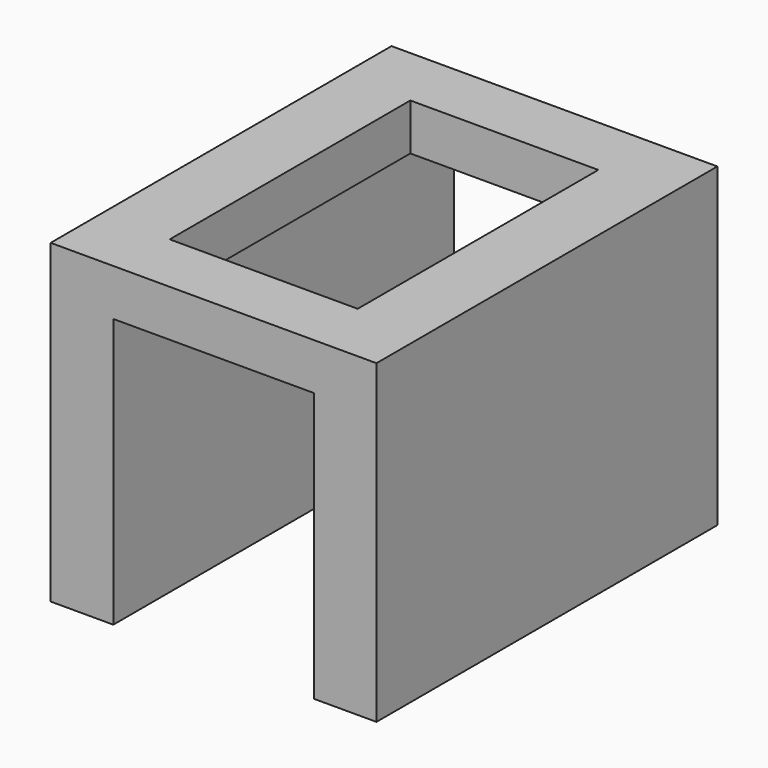
from build123d import *

# Parameters (mm, degrees)
SKETCH021_W     = 65
SKETCH021_H     = 85
PAD015_DEPTH    = 63
SKETCH022_W     = 40
SKETCH022_H     = 85
POCKET009_DEPTH = 53.7
SKETCH023_W     = 37.5
SKETCH023_H     = 60
POCKET010_DEPTH = 63


with BuildPart() as part:
    # Sketch021 → Pad015 (new body)
    with BuildSketch(Plane.XY):
        with Locations((0, -30)):
            Rectangle(SKETCH021_W, SKETCH021_H)
    extrude(amount=PAD015_DEPTH)

    # Sketch022 (on Face5 of Pad015) → Pocket009 (cut)
    with BuildSketch(Plane(origin=(0, 0, 0), x_dir=(1, 0, 0), z_dir=(0, 0, -1))):
        with Locations((0, 30)):
            Rectangle(SKETCH022_W, SKETCH022_H)
    extrude(amount=-POCKET009_DEPTH, mode=Mode.SUBTRACT)

    # Sketch023 → Pocket010 (cut)
    with BuildSketch(Plane.XY):
        with Locations((0, -30)):
            Rectangle(SKETCH023_W, SKETCH023_H)
    extrude(amount=POCKET010_DEPTH, mode=Mode.SUBTRACT)


with BuildPart() as part_1:
    # Body003 placement: moved
    add(part.part.moved(Location((0, 0, 15))))


solid = part_1.part
